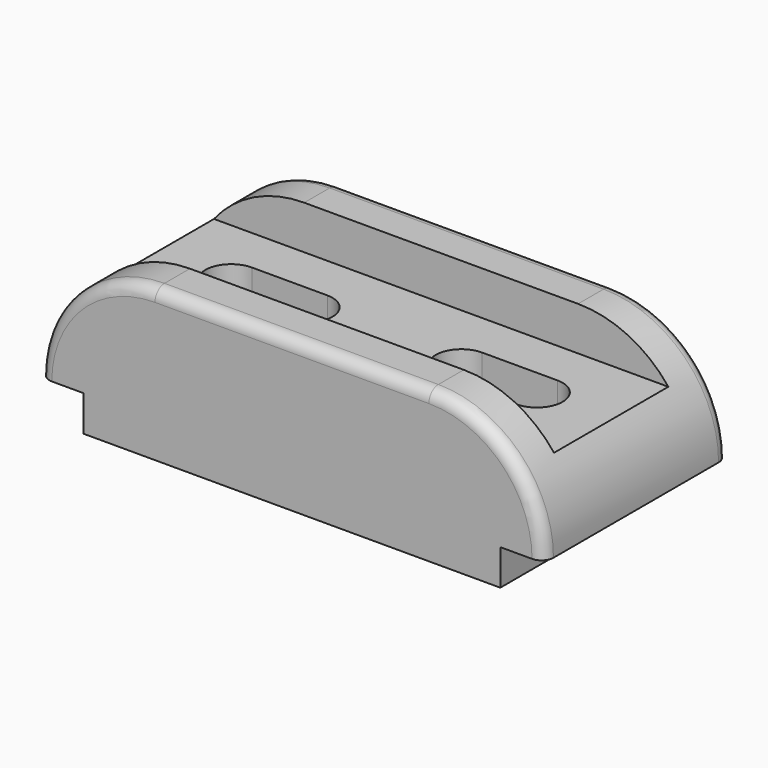
from build123d import *

# Parameters (mm, degrees)
F1_DEPTH = 29
F2_W     = 150
F2_H     = 36
F3_DEPTH = 11
F5_DEPTH = 27.001
F6_R     = 3


with BuildPart() as f1:
    # F0 (on Front) → F1 (new body, symmetric)
    with BuildSketch(Plane.XZ):
        with BuildLine():
            Line((-105, 0), (0, 0))
            Line((0, 0), (0, 9))
            Line((0, 9), (11, 9))
            ThreePointArc((11, 9), (2.506097, 29.506097), (-18, 38))
            Line((-18, 38), (-87, 38))
            ThreePointArc((-87, 38), (-107.506097, 29.506097), (-116, 9))
            Line((-116, 9), (-105, 9))
            Line((-105, 9), (-105, 0))
        make_face()
    extrude(amount=F1_DEPTH, both=True)

    # F2 (on face) → F3 (cut)
    with BuildSketch(Plane.XY.offset(38)):
        with Locations((-53, 0)):
            Rectangle(F2_W, F2_H)
    extrude(amount=-F3_DEPTH, mode=Mode.SUBTRACT)

    # F4 (on face) → F5 (cut, through all)
    with BuildSketch(Plane.XY.offset(27)):
        with BuildLine():
            Line((-33, -6.5), (-14, -6.5))
            ThreePointArc((-14, -6.5), (-7.5, 0), (-14, 6.5))
            Line((-14, 6.5), (-33, 6.5))
            ThreePointArc((-33, 6.5), (-39.5, 0), (-33, -6.5))
        make_face()
        with BuildLine():
            Line((-91, -6.5), (-72, -6.5))
            ThreePointArc((-72, -6.5), (-65.5, 0), (-72, 6.5))
            Line((-72, 6.5), (-91, 6.5))
            ThreePointArc((-91, 6.5), (-97.5, 0), (-91, -6.5))
        make_face()
    extrude(amount=-F5_DEPTH, mode=Mode.SUBTRACT)

    # F6
    f6_edges = [f1.edges().sort_by_distance(p)[0] for p in [
        (-52.5, -29, 38),
        (-52.5, 29, 38),
    ]]
    fillet(f6_edges, radius=F6_R)


solid = f1.part
